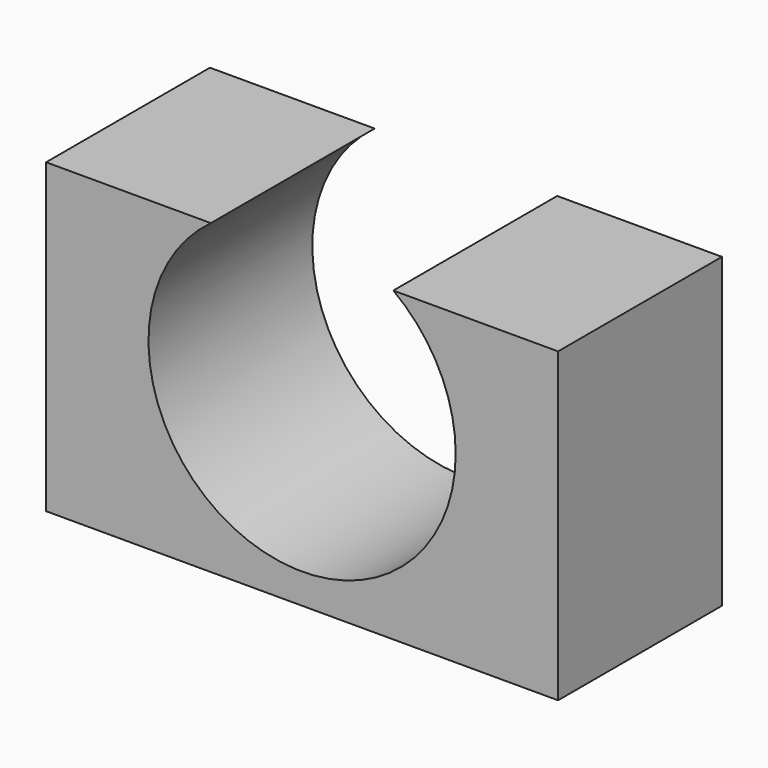
from build123d import *

# Parameters (mm, degrees)
F0_W     = 63.5
F0_H     = 38.1
F1_DEPTH = 25.4
F3_DEPTH = 25.4


with BuildPart() as f1:
    # F0 (on Front) → F1 (new body)
    with BuildSketch(Plane.XZ):
        with Locations((-7.962992, 14.377883)):
            Rectangle(F0_W, F0_H)
    extrude(amount=-F1_DEPTH)

    # F2 (on face) → F3 (cut)
    with BuildSketch(Plane.XZ):
        with BuildLine():
            ThreePointArc((-19.280896, 33.427883), (-16.544845, 1.096975), (11.087008, 18.104453))
            ThreePointArc((11.087008, 18.104453), (9.044486, 26.686306), (3.354913, 33.427883))
            Line((3.354913, 33.427883), (-19.280896, 33.427883))
        make_face()
    extrude(amount=-F3_DEPTH, mode=Mode.SUBTRACT)


solid = f1.part
